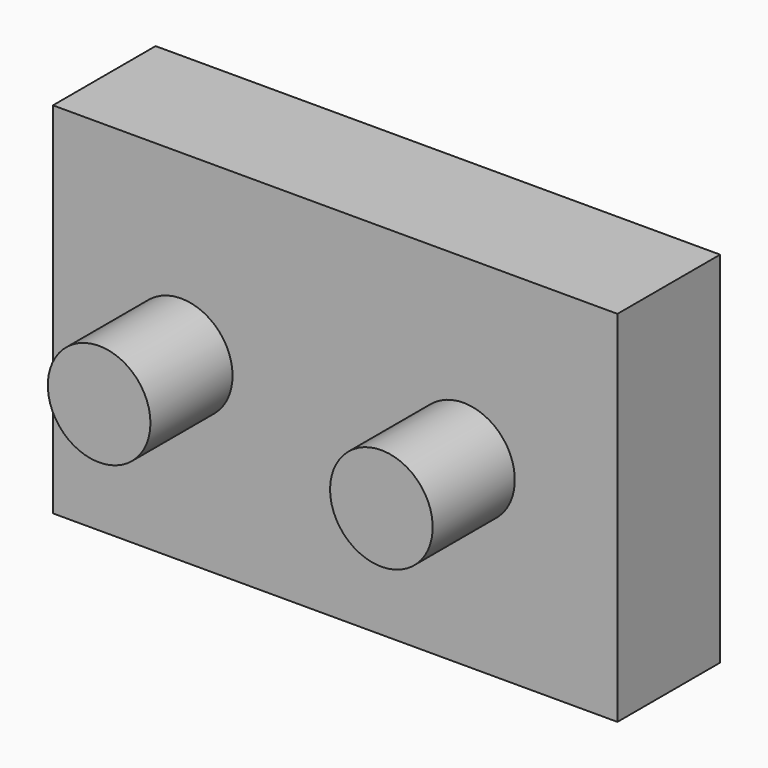
from build123d import *

# Parameters (mm, degrees)
F0_W     = 110
F0_H     = 70
F1_DEPTH = 25
F2_R     = 10
F3_DEPTH = 20


with BuildPart() as f1:
    # F0 (on Front) → F1 (new body)
    with BuildSketch(Plane.XZ):
        with Locations((55, 35)):
            Rectangle(F0_W, F0_H)
    extrude(amount=F1_DEPTH)

    # F2 (on face) → F3 (join)
    with BuildSketch(Plane.XZ.offset(25)):
        with Locations((25, 35)):
            Circle(F2_R)
        with BuildLine():
            ThreePointArc((90, 35), (80, 45), (70, 35))
            ThreePointArc((70, 35), (80, 25), (90, 35))
        make_face()
    extrude(amount=F3_DEPTH)


solid = f1.part
